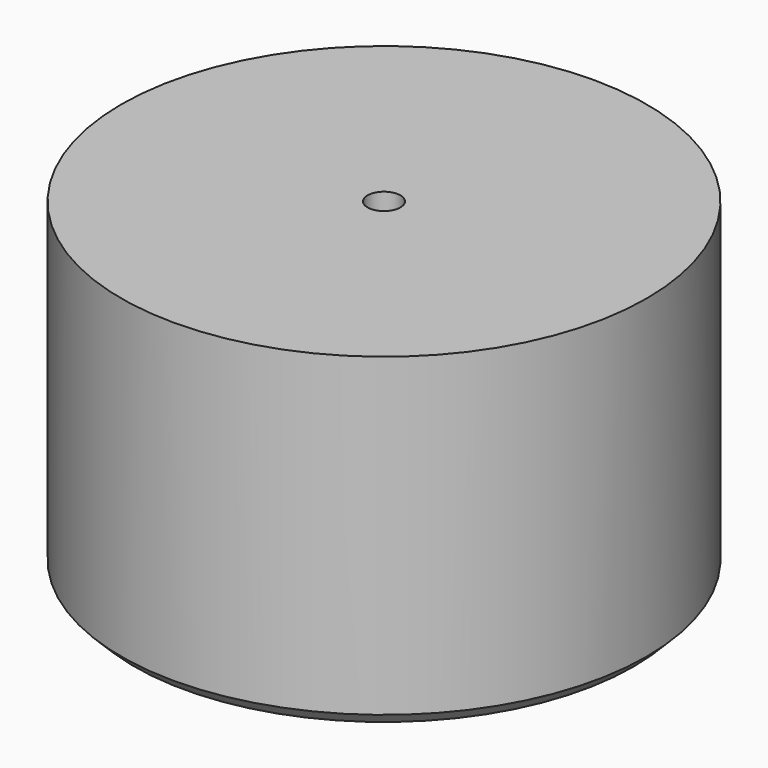
from build123d import *

# Parameters (mm, degrees)
F0_R     = 40
F1_DEPTH = 50
F2_R     = 2.5
F3_DEPTH = 50
F4_R     = 7.5
F5_DEPTH = 2
F6_SIZE  = 2


with BuildPart() as f1:
    # F0 (on Top) → F1 (new body)
    with BuildSketch(Plane.XY):
        Circle(F0_R)
    extrude(amount=F1_DEPTH)

    # F2 (on face) → F3 (cut)
    with BuildSketch(Plane.XY.offset(50)):
        Circle(F2_R)
    extrude(amount=-F3_DEPTH, mode=Mode.SUBTRACT)

    # F4 (on face) → F5 (cut)
    with BuildSketch(Plane(origin=(0, 0, 0), x_dir=(1, 0, 0), z_dir=(0, 0, -1))):
        Circle(F4_R)
    extrude(amount=-F5_DEPTH, mode=Mode.SUBTRACT)

    # F6
    f6_edges = [f1.edges().sort_by_distance(p)[0] for p in [
        (-40, 0, 0),
    ]]
    chamfer(f6_edges, length=F6_SIZE)


solid = f1.part
